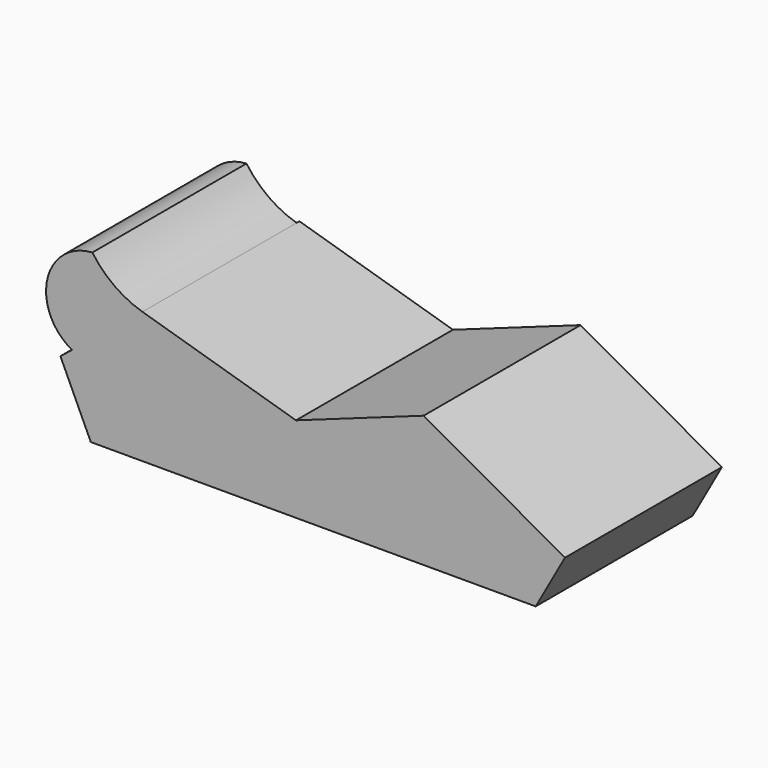
from build123d import *

# Parameters (mm, degrees)
F1_DEPTH = 42.418
F3_DEPTH = 42.672
F4_DEPTH = 1.016


with BuildPart() as f1:
    # F0 (on Front) → F1 (new body)
    with BuildSketch(Plane.XZ):
        Polygon((0, 18.5649488121), (-33.1869013608, 28.4224450588), (-50.9303919971, 14.2112225294), (-44.3587265909, 0), (51.8207407387, 0), (58.1592172384, 11.3361189142), (27.600986883, 28.4224450588), align=None)
    extrude(amount=F1_DEPTH)

    # F2 (on face) → F3 (join)
    with BuildSketch(Plane.XZ.offset(42.418)):
        with BuildLine():
            ThreePointArc((-33.1869013608, 28.4224450588), (-39.2604604224, 31.3968249678), (-44.0265255123, 36.194707738))
            ThreePointArc((-44.0265255123, 36.194707738), (-53.7891889284, 27.8738262503), (-48.4137057273, 16.2269019326))
            Line((-48.4137057273, 16.2269019326), (-33.1869013608, 28.4224450588))
        make_face()
    extrude(amount=-F3_DEPTH)

    # F4 (cut): a face of the model
    f4_faces = [f1.faces().sort_by_distance(p)[0] for p in [
        (-45.7791341784, 0.254, 26.7092590305),
    ]]
    extrude(f4_faces, amount=-F4_DEPTH, mode=Mode.SUBTRACT)


solid = f1.part
